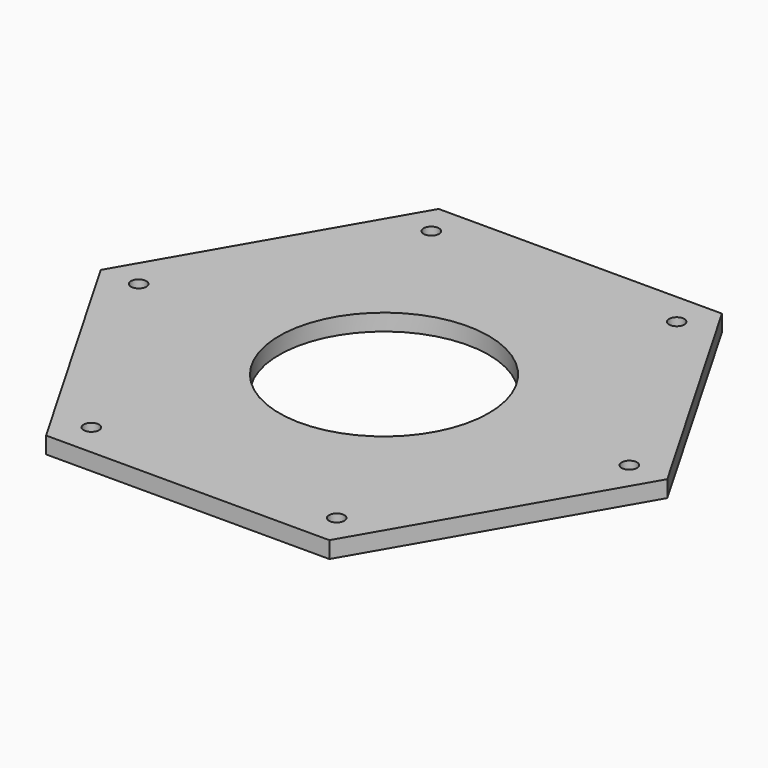
from build123d import *

# Parameters (mm, degrees)
SKETCH_R        = 81.748116
PAD_DEPTH       = 13
SKETCH001_R     = 6
POCKET_DEPTH    = 13.001
SKETCH002_R     = 6
POCKET001_DEPTH = 13.001


with BuildPart() as part:
    # Sketch → Pad (new body)
    with BuildSketch(Plane.XY):
        Polygon((110.562577, 191.5), (-110.562577, 191.5), (-221.125153, 0), (-110.562577, -191.5), (110.562577, -191.5), (221.125153, 0), align=None)
        Circle(SKETCH_R, mode=Mode.SUBTRACT)
    extrude(amount=PAD_DEPTH)

    # Sketch001 (on Face9 of Pad) → Pocket (cut, through all)
    with BuildSketch(Plane.XY.offset(13)):
        with Locations((95.75, 165.843865)):
            Circle(SKETCH001_R)
        with Locations((-95.75, 165.843865)):
            Circle(SKETCH001_R)
        with Locations((-95.75, -165.843865)):
            Circle(SKETCH001_R)
        with Locations((95.75, -165.843865)):
            Circle(SKETCH001_R)
    extrude(amount=-POCKET_DEPTH, mode=Mode.SUBTRACT)

    # Sketch002 (on Face5 of Pocket) → Pocket001 (cut, through all)
    with BuildSketch(Plane.XY.offset(13)):
        with Locations((-191.5, 0)):
            Circle(SKETCH002_R)
        with Locations((191.5, 0)):
            Circle(SKETCH002_R)
    extrude(amount=-POCKET001_DEPTH, mode=Mode.SUBTRACT)


solid = part.part
